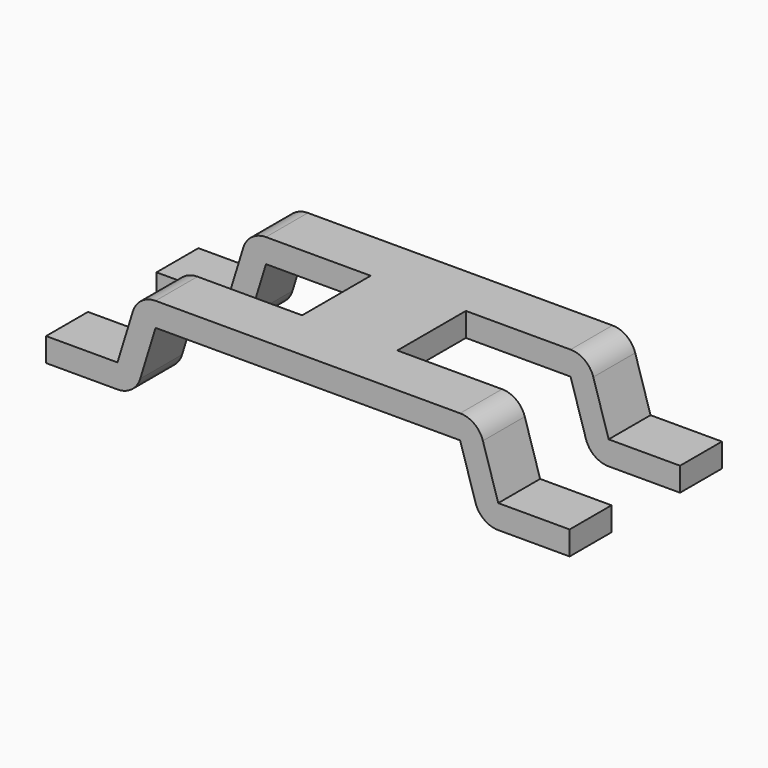
from build123d import *

# Parameters (mm, degrees)
PAD019_DEPTH         = 2
SKETCH035_W          = 5
SKETCH035_H          = 1.8
POCKET005_DEPTH      = 23.716818
POCKET005_DEPTH_BACK = 25.616818


with BuildPart() as part:
    # Sketch034 → Pad019 (new body, symmetric)
    with BuildSketch(Plane.XZ):
        with BuildLine():
            Line((0, 1.9), (3.2, 1.9))
            ThreePointArc((3.677897, 1.547019), (3.497061, 1.802188), (3.2, 1.9))
            Line((4, 0.5), (3.677897, 1.547019))
            Line((4, 0.5), (5.5, 0.5))
            Line((5.5, 0.5), (5.5, 0))
            Line((5.5, 0), (4, 0))
            ThreePointArc((3.522103, 0.352981), (3.702939, 0.097812), (4, 0))
            Line((3.2, 1.4), (3.522103, 0.352981))
            Line((3.2, 1.4), (0, 1.4))
            Line((0, 1.4), (0, 1.9))
        make_face()
    pad019 = extrude(amount=PAD019_DEPTH, both=True)

    # Mirrored005: Pad019 across YZ
    add(pad019.mirror(Plane.YZ))

    # Sketch035 → Pocket005 (cut, two sides)
    with BuildSketch(Plane.XY) as pocket005_sk:
        with Locations((3.5, 0)):
            Rectangle(SKETCH035_W, SKETCH035_H)
    pocket005 = extrude(amount=-POCKET005_DEPTH, mode=Mode.SUBTRACT) + extrude(pocket005_sk.sketch, amount=POCKET005_DEPTH_BACK, mode=Mode.SUBTRACT)

    # Mirrored006: Pocket005 across YZ
    add(pocket005.mirror(Plane.YZ), mode=Mode.SUBTRACT)


with BuildPart() as part_1:
    # Body022 placement: moved
    add(part.part.moved(Location((0, 14.75, 0))))


solid = part_1.part
